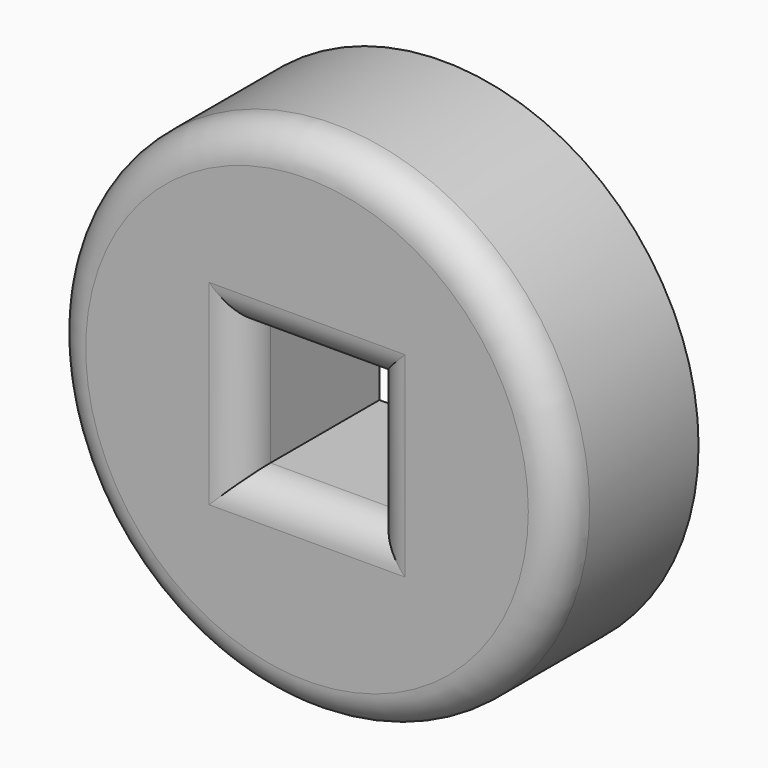
from build123d import *

# Parameters (mm, degrees)
F0_R     = 38.1
F1_DEPTH = 25.4
F2_R     = 5.08
F3_W     = 19.05
F3_H     = 19.05
F4_DEPTH = 25.401
F5_R     = 5.08


with BuildPart() as f1:
    # F0 (on Front) → F1 (new body)
    with BuildSketch(Plane.XZ):
        Circle(F0_R)
    extrude(amount=F1_DEPTH)

    # F2
    f2_edges = [f1.edges().sort_by_distance(p)[0] for p in [
        (-38.1, -25.4, 0),
    ]]
    fillet(f2_edges, radius=F2_R)

    # F3 (on face) → F4 (cut, through all)
    with BuildSketch(Plane(origin=(0, 0, 0), x_dir=(-1, 0, 0), z_dir=(0, 1, 0))):
        Rectangle(F3_W, F3_H)
    extrude(amount=-F4_DEPTH, mode=Mode.SUBTRACT)

    # F5
    f5_edges = [f1.edges().sort_by_distance(p)[0] for p in [
        (0, -25.4, 9.525),
        (-9.525, -25.4, 0),
        (0, -25.4, -9.525),
        (9.525, -25.4, 0),
    ]]
    fillet(f5_edges, radius=F5_R)


solid = f1.part
